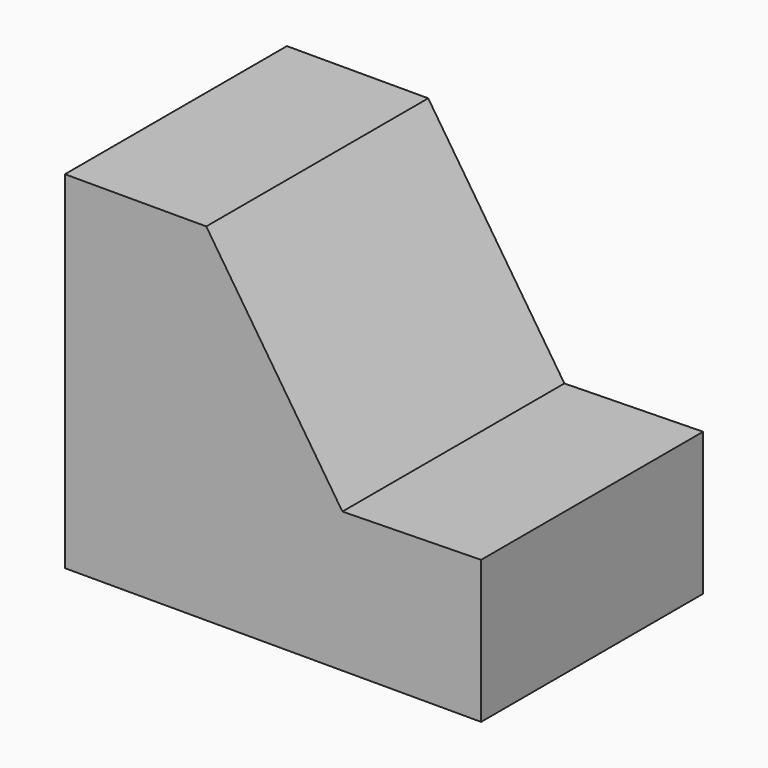
from build123d import *

# Parameters (mm, degrees)
F0_W     = 38.1
F0_H     = 31.75
F1_DEPTH = 25.4
F3_DEPTH = 25.401


with BuildPart() as f1:
    # F0 (on Front) → F1 (new body)
    with BuildSketch(Plane.XZ):
        with Locations((-19.05, 15.875)):
            Rectangle(F0_W, F0_H)
    extrude(amount=F1_DEPTH)

    # F2 (on Front) → F3 (cut, through all)
    with BuildSketch(Plane.XZ):
        Polygon((-12.697782, 12.824426), (0, 13.061768), (0, 32.111768), (-25.4, 32.111768), align=None)
    extrude(amount=F3_DEPTH, mode=Mode.SUBTRACT)


solid = f1.part
